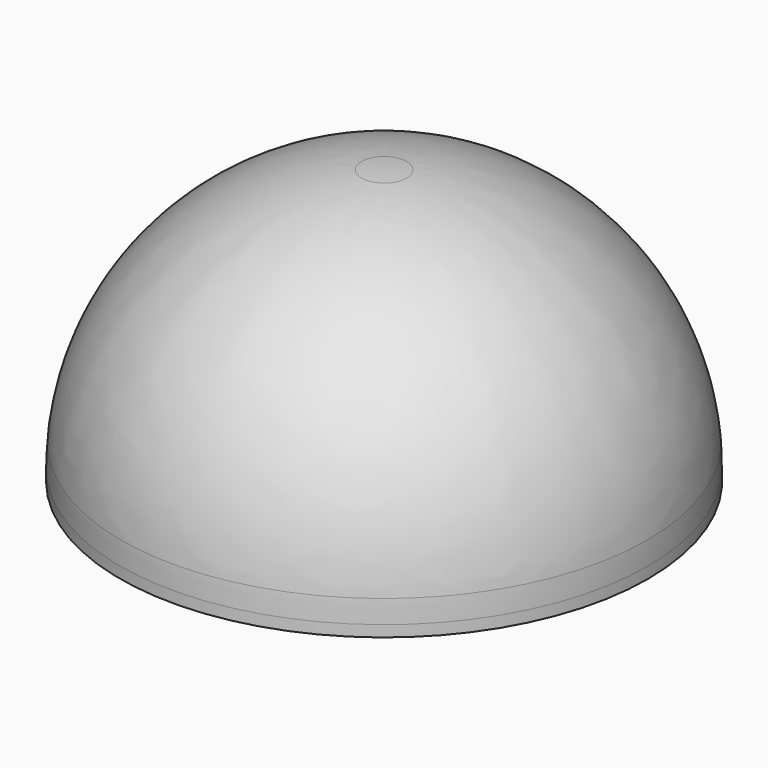
from build123d import *

# Parameters (mm, degrees)
F0_R     = 3573.78
F1_DEPTH = 152.4


with BuildPart() as f1:
    # F0 (on Top) → F1 (new body)
    with BuildSketch(Plane.XY):
        Circle(F0_R)
    extrude(amount=-F1_DEPTH)


with BuildPart() as f4:
    # F2 (on Front) → F4 (revolve)
    with BuildSketch(Plane.XZ):
        with BuildLine():
            Line((0, 0), (3573.78, 0))
            ThreePointArc((3573.78, 0), (3570.523118, 152.539013), (3560.758409, 304.8))
            ThreePointArc((3560.758409, 304.8), (2527.044072, 2527.044072), (304.8, 3560.758409))
            ThreePointArc((304.8, 3560.758409), (152.539013, 3570.523118), (0, 3573.78))
            Line((0, 3573.78), (0, 3268.98))
            ThreePointArc((0, 3268.98), (2201.118481, 2416.879739), (3254.739191, 304.8))
            Line((3254.739191, 304.8), (0, 304.8))
            Line((0, 304.8), (0, 0))
        make_face()
    revolve(axis=Axis((0, 0, 1895.250082), (0, 0, 1)))


solid = Compound([f1.part, f4.part])
